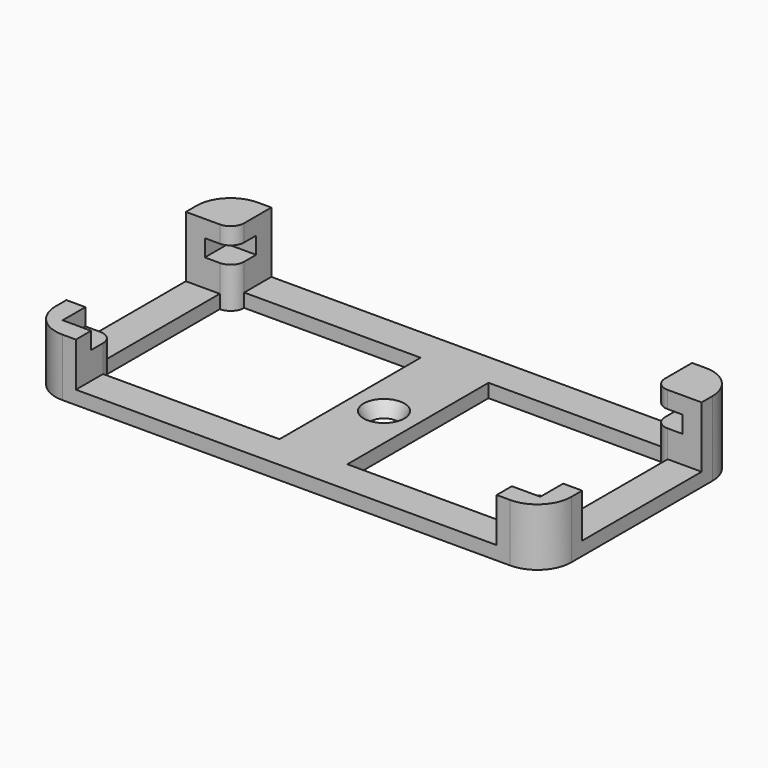
from build123d import *

# Parameters (mm, degrees)
PAD084_DEPTH    = 11
POCKET032_DEPTH = 10
SKETCH143_W     = 70.4
SKETCH143_H     = 30.4
POCKET033_DEPTH = 2.5
SKETCH144_R     = 5.5
POCKET034_DEPTH = 2.5


with BuildPart() as part:
    # Sketch141 → Pad084 (new body)
    with BuildSketch(Plane.XY):
        with BuildLine():
            ThreePointArc((-33, 18), (-36.535534, 16.535534), (-38, 13))
            Line((-38, 13), (-38, -13))
            ThreePointArc((-38, -13), (-36.535534, -16.535534), (-33, -18))
            Line((33, -18), (-33, -18))
            ThreePointArc((33, -18), (36.535534, -16.535534), (38, -13))
            Line((38, 13), (38, -13))
            ThreePointArc((38, 13), (36.535534, 16.535534), (33, 18))
            Line((-33, 18), (33, 18))
        make_face()
        with BuildLine():
            ThreePointArc((-33, 11), (-31.585786, 11.585786), (-31, 13))
            Line((-31, 13), (-5, 13))
            Line((-5, 13), (-5, -13))
            Line((-5, -13), (-31, -13))
            ThreePointArc((-31, -13), (-31.585786, -11.585786), (-33, -11))
            Line((-33, -11), (-33, 11))
        make_face(mode=Mode.SUBTRACT)
        with BuildLine():
            ThreePointArc((31, 13), (31.585786, 11.585786), (33, 11))
            Line((33, 11), (33, -11))
            ThreePointArc((33, -11), (31.585786, -11.585786), (31, -13))
            Line((31, -13), (5, -13))
            Line((5, 13), (5, -13))
            Line((5, 13), (31, 13))
        make_face(mode=Mode.SUBTRACT)
    extrude(amount=PAD084_DEPTH)

    # Sketch142 → Pocket032 (cut)
    with BuildSketch(Plane.XY.offset(12)):
        Polygon((-31, 18), (-31, 11), (-38, 11), (-38, -11), (-31, -11), (-31, -18), (31, -18), (31, -11), (38, -11), (38, 11), (31, 11), (31, 18), align=None)
    extrude(amount=-POCKET032_DEPTH, mode=Mode.SUBTRACT)

    # Sketch143 → Pocket033 (cut)
    with BuildSketch(Plane.XY.offset(6)):
        Rectangle(SKETCH143_W, SKETCH143_H)
    extrude(amount=POCKET033_DEPTH, mode=Mode.SUBTRACT)

    # Sketch144 → Pocket034 (cut)
    with BuildSketch(Plane.XY.offset(11)):
        with Locations((-33, -13)):
            Circle(SKETCH144_R)
        with Locations((33, -13)):
            Circle(SKETCH144_R)
    extrude(amount=-POCKET034_DEPTH, mode=Mode.SUBTRACT)

    # Cone008 → Cone008 (revolve, cut)
    with BuildSketch(Plane.XZ):
        Polygon((0, 0), (2, 0), (3, 2), (0, 2), align=None)
    revolve(axis=Axis((0, 0, 0), (0, 0, 1)), mode=Mode.SUBTRACT)


solid = part.part
